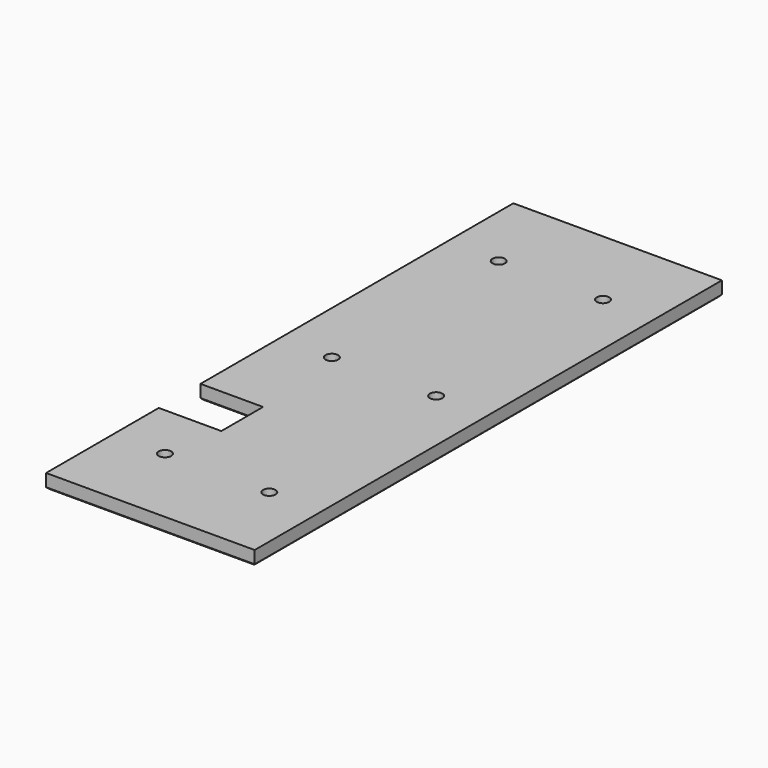
from build123d import *

# Parameters (mm, degrees)
F0_R     = 1.905
F1_DEPTH = 4.318
F2_SIZE  = 0.508


with BuildPart() as f1:
    # F0 (on Top) → F1 (new body)
    with BuildSketch(Plane.XY):
        Polygon((-31.75, -88.9), (31.75, -88.9), (31.75, 88.9), (-31.75, 88.9), (-31.75, -30.1498), (-12.7, -30.1498), (-12.7, -46.0248), (-31.75, -46.0248), align=None)
        with Locations((-15.875, -63.5)):
            Circle(F0_R, mode=Mode.SUBTRACT)
        with Locations((15.875, -63.5)):
            Circle(F0_R, mode=Mode.SUBTRACT)
        with Locations((-15.875, 0)):
            Circle(F0_R, mode=Mode.SUBTRACT)
        with Locations((-15.875, 63.5)):
            Circle(F0_R, mode=Mode.SUBTRACT)
        with Locations((15.875, 0)):
            Circle(F0_R, mode=Mode.SUBTRACT)
        with Locations((15.875, 63.5)):
            Circle(F0_R, mode=Mode.SUBTRACT)
    extrude(amount=F1_DEPTH)

    # F2
    f2_edges = [f1.edges().sort_by_distance(p)[0] for p in [
        (0, -88.9, 0),
        (-31.75, -67.4624, 0),
        (-22.225, -46.0248, 0),
        (-12.7, -38.0873, 0),
        (-22.225, -30.1498, 0),
        (-31.75, 29.3751, 0),
        (0, 88.9, 0),
        (31.75, 0, 0),
        (-17.78, 0, 0),
        (13.97, 0, 0),
        (13.97, -63.5, 0),
        (-17.78, -63.5, 0),
        (-17.78, 63.5, 0),
        (13.97, 63.5, 0),
    ]]
    chamfer(f2_edges, length=F2_SIZE)


solid = f1.part
